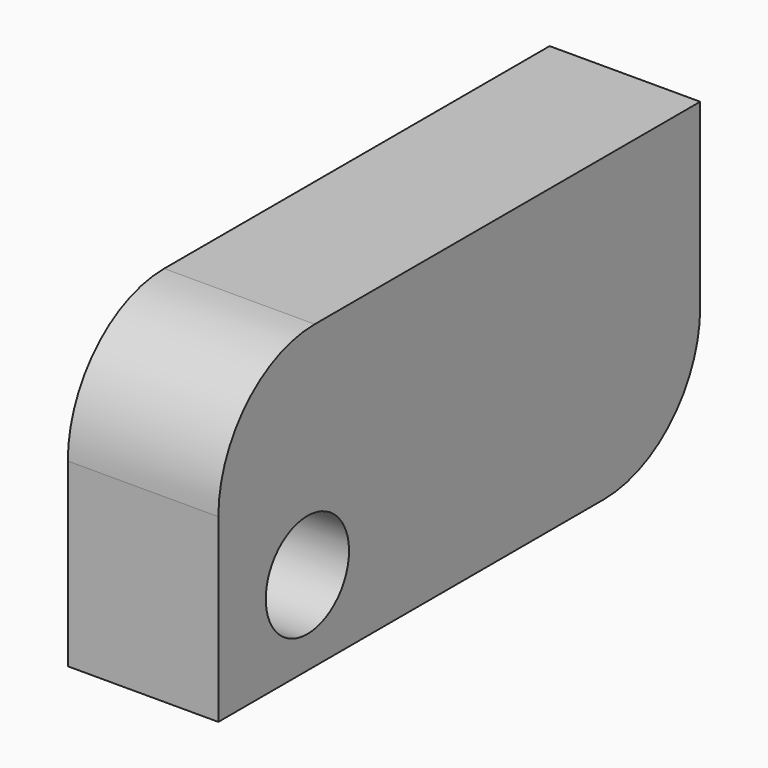
from build123d import *

# Parameters (mm, degrees)
F0_W     = 50.8
F0_H     = 25.4
F1_DEPTH = 12.7
F2_R     = 10.16
F3_R     = 4.389033
F4_DEPTH = 25.4


with BuildPart() as f1:
    # F0 (on Right) → F1 (new body)
    with BuildSketch(Plane.YZ):
        with Locations((25.4, -12.7)):
            Rectangle(F0_W, F0_H)
    extrude(amount=F1_DEPTH)

    # F2
    f2_edges = [f1.edges().sort_by_distance(p)[0] for p in [
        (6.35, 0, 0),
        (6.35, 50.8, -25.4),
    ]]
    fillet(f2_edges, radius=F2_R)

    # F3 (on face) → F4 (cut)
    with BuildSketch(Plane.YZ.offset(12.7)):
        with Locations((9.386016, -18.30278)):
            Circle(F3_R)
    extrude(amount=-F4_DEPTH, mode=Mode.SUBTRACT)


solid = f1.part
